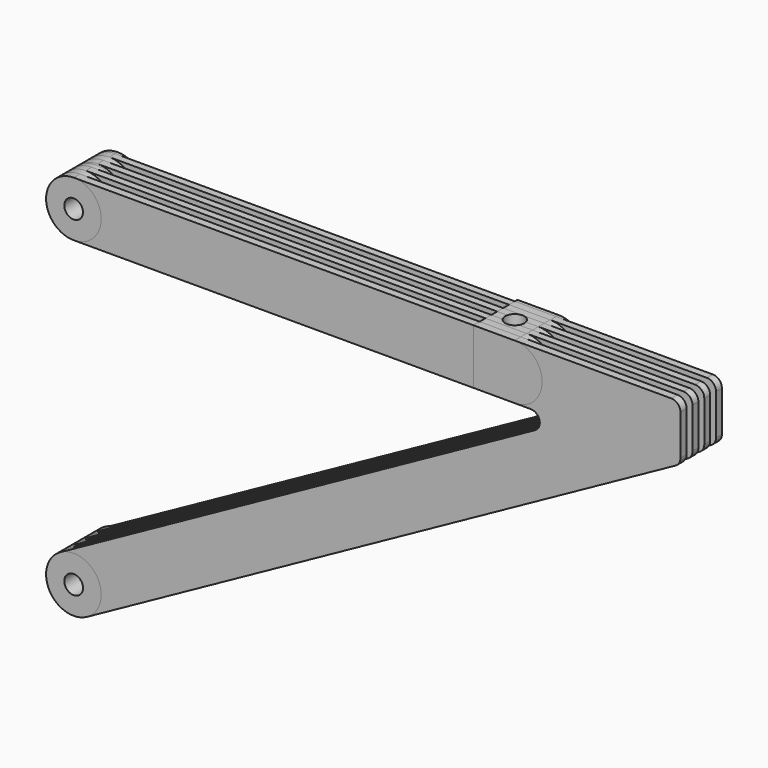
from build123d import *

# Parameters (mm, degrees)
F1_DEPTH = 7.5
F2_W     = 25
F2_H     = 2
F2_W_2   = 87.9392416629
F3_DEPTH = 127.501
F4_DEPTH = 7.5
F5_D     = 3
F5_DEPTH = 13.5
F5_TIP   = 0.9012909285
F7_R     = 2.6
F8_DEPTH = 15
F6_R     = 2.55
F9_DEPTH = 12.5


with BuildPart() as f1:
    # F0 (on Front) → F1 (new body, symmetric)
    with BuildSketch(Plane.XZ):
        with BuildLine():
            ThreePointArc((0, 127.5), (5.3033008589, 125.3033008589), (7.5, 120))
            ThreePointArc((7.5, 120), (5.3033008589, 114.6966991411), (0, 112.5))
            Line((0, 112.5), (108.7850481272, 112.5))
            Line((108.7850481272, 112.5), (108.7850481272, 127.5))
            Line((108.7850481272, 127.5), (0, 127.5))
        make_face()
        with BuildLine():
            Line((120, 127.5), (108.7850481272, 127.5))
            Line((108.7850481272, 127.5), (108.7850481272, 112.5))
            Line((108.7850481272, 112.5), (120, 112.5))
            ThreePointArc((120, 112.5), (127.5, 120), (120, 127.5))
        make_face()
        with BuildLine():
            ThreePointArc((0, 112.5), (5.3033008589, 114.6966991411), (7.5, 120))
            ThreePointArc((7.5, 120), (5.3033008589, 125.3033008589), (0, 127.5))
            ThreePointArc((0, 127.5), (-7.5, 120), (0, 112.5))
        make_face()
        with BuildLine():
            Line((162.6379891518, 127.5), (120, 127.5))
            ThreePointArc((120, 127.5), (127.5, 120), (120, 112.5))
            Line((120, 112.5), (124.3643918131, 112.5))
            ThreePointArc((124.3643918131, 112.5), (126.7854456219, 110.6232964421), (125.5716191931, 107.8107987637))
            Line((125.5716191931, 107.8107987637), (-3.6216821402, 36.5676037088))
            ThreePointArc((-3.6216821402, 36.5676037088), (3.813619275, 36.4580421202), (7.5, 30))
            ThreePointArc((7.5, 30), (6.4580421202, 26.186380725), (3.6216821402, 23.4323962912))
            Line((3.6216821402, 23.4323962912), (163.8452165318, 111.7871050513))
            ThreePointArc((163.8452165318, 111.7871050513), (164.7906698585, 112.7050998626), (165.1379891518, 113.9763062876))
            Line((165.1379891518, 113.9763062876), (165.1379891518, 125))
            ThreePointArc((165.1379891518, 125), (164.4057561047, 126.767766953), (162.6379891518, 127.5))
        make_face()
        with BuildLine():
            Line((162.6379891518, 127.5), (120, 127.5))
            ThreePointArc((120, 127.5), (127.5, 120), (120, 112.5))
            Line((120, 112.5), (124.3643918131, 112.5))
            ThreePointArc((124.3643918131, 112.5), (126.7854456219, 110.6232964421), (125.5716191931, 107.8107987637))
            Line((125.5716191931, 107.8107987637), (-3.6216821402, 36.5676037088))
            ThreePointArc((-3.6216821402, 36.5676037088), (3.813619275, 36.4580421202), (7.5, 30))
            ThreePointArc((7.5, 30), (6.4580421202, 26.186380725), (3.6216821402, 23.4323962912))
            Line((3.6216821402, 23.4323962912), (163.8452165318, 111.7871050513))
            ThreePointArc((163.8452165318, 111.7871050513), (164.7906698585, 112.7050998626), (165.1379891518, 113.9763062876))
            Line((165.1379891518, 113.9763062876), (165.1379891518, 125))
            ThreePointArc((165.1379891518, 125), (164.4057561047, 126.767766953), (162.6379891518, 127.5))
        make_face()
        with BuildLine():
            ThreePointArc((7.5, 30), (3.813619275, 36.4580421202), (-3.6216821402, 36.5676037088))
            ThreePointArc((-3.6216821402, 36.5676037088), (-6.5676037088, 26.3783178598), (3.6216821402, 23.4323962912))
            ThreePointArc((3.6216821402, 23.4323962912), (6.4580421202, 26.186380725), (7.5, 30))
        make_face()
        with BuildLine():
            Line((120, 127.5), (108.7850481272, 127.5))
            Line((108.7850481272, 127.5), (108.7850481272, 112.5))
            Line((108.7850481272, 112.5), (120, 112.5))
            ThreePointArc((120, 112.5), (127.5, 120), (120, 127.5))
        make_face()
    extrude(amount=F1_DEPTH, both=True)

    # F2 (on Top) → F3 (cut, through all)
    with BuildSketch(Plane.XY):
        with Locations((23.2615718412, 7.6191863865)):
            Rectangle(F2_W, F2_H)
        with Locations((-1.7384281588, 7.6191863865)):
            Rectangle(F2_W, F2_H)
        with Locations((261.2008135041, 7.6191863865)):
            Rectangle(F2_W, F2_H)
        with Locations((211.2008135041, 7.6191863865)):
            Rectangle(F2_W, F2_H)
        with Locations((48.2615718412, 7.6191863865)):
            Rectangle(F2_W, F2_H)
        with Locations((236.2008135041, 7.6191863865)):
            Rectangle(F2_W, F2_H)
        with Locations((186.2008135041, 7.6191863865)):
            Rectangle(F2_W, F2_H)
        with Locations((129.7311926726, 7.6191863865)):
            Rectangle(F2_W_2, F2_H)
        with Locations((73.2615718412, 7.6191863865)):
            Rectangle(F2_W, F2_H)
        with Locations((48.2615718412, 3.6191863865)):
            Rectangle(F2_W, F2_H)
        with Locations((73.2615718412, 3.6191863865)):
            Rectangle(F2_W, F2_H)
        with Locations((-1.7384281588, 3.6191863865)):
            Rectangle(F2_W, F2_H)
        with Locations((261.2008135041, 3.6191863865)):
            Rectangle(F2_W, F2_H)
        with Locations((23.2615718412, 3.6191863865)):
            Rectangle(F2_W, F2_H)
        with Locations((236.2008135041, 3.6191863865)):
            Rectangle(F2_W, F2_H)
        with Locations((129.7311926726, 3.6191863865)):
            Rectangle(F2_W_2, F2_H)
        with Locations((186.2008135041, 3.6191863865)):
            Rectangle(F2_W, F2_H)
        with Locations((48.2615718412, 3.6191863865)):
            Rectangle(F2_W, F2_H)
        with Locations((73.2615718412, 3.6191863865)):
            Rectangle(F2_W, F2_H)
        with Locations((129.7311926726, 3.6191863865)):
            Rectangle(F2_W_2, F2_H)
        with Locations((186.2008135041, 3.6191863865)):
            Rectangle(F2_W, F2_H)
        with Locations((211.2008135041, 3.6191863865)):
            Rectangle(F2_W, F2_H)
        with Locations((261.2008135041, -0.3808136135)):
            Rectangle(F2_W, F2_H)
        with Locations((129.7311926726, -0.3808136135)):
            Rectangle(F2_W_2, F2_H)
        with Locations((48.2615718412, -0.3808136135)):
            Rectangle(F2_W, F2_H)
        with Locations((73.2615718412, -0.3808136135)):
            Rectangle(F2_W, F2_H)
        with Locations((-1.7384281588, -0.3808136135)):
            Rectangle(F2_W, F2_H)
        with Locations((23.2615718412, -0.3808136135)):
            Rectangle(F2_W, F2_H)
        with Locations((236.2008135041, -0.3808136135)):
            Rectangle(F2_W, F2_H)
        with Locations((186.2008135041, -0.3808136135)):
            Rectangle(F2_W, F2_H)
        with Locations((48.2615718412, -0.3808136135)):
            Rectangle(F2_W, F2_H)
        with Locations((73.2615718412, -0.3808136135)):
            Rectangle(F2_W, F2_H)
        with Locations((129.7311926726, -0.3808136135)):
            Rectangle(F2_W_2, F2_H)
        with Locations((186.2008135041, -0.3808136135)):
            Rectangle(F2_W, F2_H)
        with Locations((211.2008135041, -0.3808136135)):
            Rectangle(F2_W, F2_H)
        with Locations((236.2008135041, -4.3808136135)):
            Rectangle(F2_W, F2_H)
        with Locations((261.2008135041, -4.3808136135)):
            Rectangle(F2_W, F2_H)
        with Locations((48.2615718412, -4.3808136135)):
            Rectangle(F2_W, F2_H)
        with Locations((73.2615718412, -4.3808136135)):
            Rectangle(F2_W, F2_H)
        with Locations((129.7311926726, -4.3808136135)):
            Rectangle(F2_W_2, F2_H)
        with Locations((186.2008135041, -4.3808136135)):
            Rectangle(F2_W, F2_H)
        with Locations((211.2008135041, -4.3808136135)):
            Rectangle(F2_W, F2_H)
        with Locations((73.2615718412, -4.3808136135)):
            Rectangle(F2_W, F2_H)
        with Locations((186.2008135041, -4.3808136135)):
            Rectangle(F2_W, F2_H)
        with Locations((48.2615718412, -4.3808136135)):
            Rectangle(F2_W, F2_H)
        with Locations((129.7311926726, -4.3808136135)):
            Rectangle(F2_W_2, F2_H)
        with Locations((23.2615718412, -4.3808136135)):
            Rectangle(F2_W, F2_H)
        with Locations((-1.7384281588, -4.3808136135)):
            Rectangle(F2_W, F2_H)
    extrude(amount=F3_DEPTH, mode=Mode.SUBTRACT)

    # F0 (on Front) → F4 (join, symmetric)
    with BuildSketch(Plane.XZ):
        with BuildLine():
            ThreePointArc((0, 112.5), (5.3033008589, 114.6966991411), (7.5, 120))
            ThreePointArc((7.5, 120), (5.3033008589, 125.3033008589), (0, 127.5))
            ThreePointArc((0, 127.5), (-7.5, 120), (0, 112.5))
        make_face()
        with BuildLine():
            Line((120, 127.5), (108.7850481272, 127.5))
            Line((108.7850481272, 127.5), (108.7850481272, 112.5))
            Line((108.7850481272, 112.5), (120, 112.5))
            ThreePointArc((120, 112.5), (127.5, 120), (120, 127.5))
        make_face()
        with BuildLine():
            ThreePointArc((7.5, 30), (3.813619275, 36.4580421202), (-3.6216821402, 36.5676037088))
            ThreePointArc((-3.6216821402, 36.5676037088), (-6.5676037088, 26.3783178598), (3.6216821402, 23.4323962912))
            ThreePointArc((3.6216821402, 23.4323962912), (6.4580421202, 26.186380725), (7.5, 30))
        make_face()
    extrude(amount=F4_DEPTH, both=True)

    # F5 (one way)
    with BuildSketch(Plane.XZ):
        with Locations((0, 120), (0, 30)):
            Circle(F5_D / 2)
    extrude(amount=-F5_DEPTH, mode=Mode.SUBTRACT)
    with Locations(Plane.XZ):
        with Locations((0, 120), (0, 30)):
            with Locations((0, 0, -(F5_DEPTH + F5_TIP / 2))):  # 118° drill point
                Cone(0, F5_D / 2, F5_TIP, mode=Mode.SUBTRACT)

    # F7 (on face) → F8 (cut, through all)
    with BuildSketch(Plane.XY.offset(127.5)):
        with Locations((114.0677630901, 0)):
            Circle(F7_R)
    extrude(amount=-F8_DEPTH, mode=Mode.SUBTRACT)

    # F6 (on Front) → F9 (cut, symmetric)
    with BuildSketch(Plane.XZ):
        with Locations((0, 120)):
            Circle(F6_R)
        with Locations((0, 30)):
            Circle(F6_R)
    extrude(amount=F9_DEPTH, both=True, mode=Mode.SUBTRACT)


solid = f1.part
